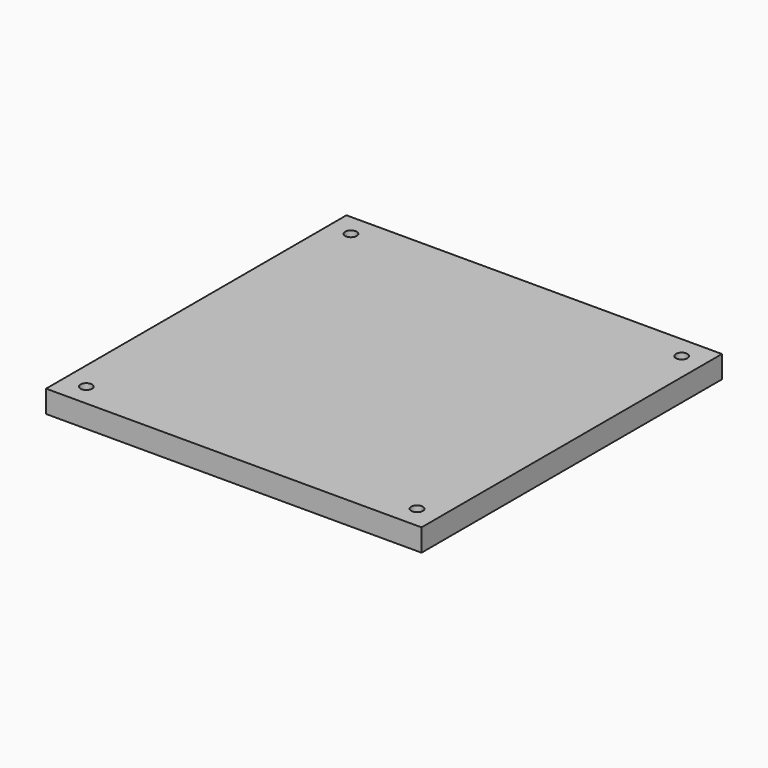
from build123d import *

# Parameters (mm, degrees)
SKETCH003_R     = 12.5
SKETCH003_R_2   = 1.3
PAD_DEPTH       = 12
PAD001_DEPTH    = 0.8
SKETCH005_W     = 84
SKETCH005_H     = 84
PAD002_DEPTH    = 5
SKETCH030_R     = 1.3
POCKET014_DEPTH = 17.8034874046


with BuildPart() as part:
    # Sketch003 (on DatumPlane) → Pad (new body)
    with BuildSketch(Plane(origin=(0.0002244487, 4.55156e-05, 5.000457982), x_dir=(0.999999999, -4e-10, -4.48856e-05), z_dir=(4.48856e-05, 9.1023e-06, 0.999999999))):
        Circle(SKETCH003_R)
        with Locations((0, 7)):
            Circle(SKETCH003_R_2, mode=Mode.SUBTRACT)
        with Locations((0, -7)):
            Circle(SKETCH003_R_2, mode=Mode.SUBTRACT)
    extrude(amount=PAD_DEPTH)

    # Sketch004 (on Face1 of CopyPocket002) → Pad001 (join)
    with BuildSketch(Plane(origin=(0.0002244487, 4.55156e-05, 5.000457982), x_dir=(0.999999999, -4e-10, -4.48856e-05), z_dir=(4.48856e-05, 9.1023e-06, 0.999999999))):
        Polygon((4.9, 0), (-2.45, 4.2435244785), (-2.45, -4.2435244785), align=None)
    extrude(amount=-PAD001_DEPTH)

    # Sketch005 (on Face3 of Pad001) → Pad002 (join)
    with BuildSketch(Plane(origin=(0.0007630761, 0.000154743, 17.0004579694), x_dir=(0.999999999, -4e-10, -4.48856e-05), z_dir=(4.48856e-05, 9.1023e-06, 0.999999999))):
        Rectangle(SKETCH005_W, SKETCH005_H)
    extrude(amount=PAD002_DEPTH)

    # Sketch030 (on Face5 of Pad002) → Pocket014 (cut, through all)
    with BuildSketch(Plane(origin=(0.0009875042, 0.0002002544, 22.0004579641), x_dir=(0.999999999, -4e-10, -4.48856e-05), z_dir=(4.48856e-05, 9.1023e-06, 0.999999999))):
        with Locations((-37, 37)):
            Circle(SKETCH030_R)
        with Locations((-37, -37)):
            Circle(SKETCH030_R)
        with Locations((37, -37)):
            Circle(SKETCH030_R)
        with Locations((37, 37)):
            Circle(SKETCH030_R)
    extrude(amount=-POCKET014_DEPTH, mode=Mode.SUBTRACT)


solid = part.part
